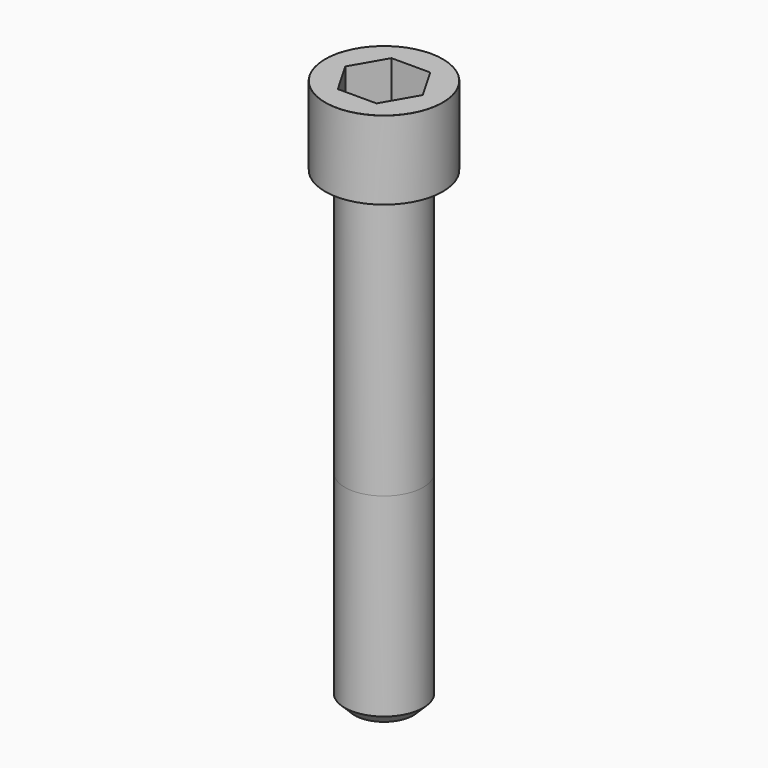
from build123d import *

# Parameters (mm, degrees)
POCKET_DEPTH = 17.1


with BuildPart() as part:
    # Sketch → Revolve (revolve)
    with BuildSketch(Plane.YZ):
        with BuildLine():
            Line((9.999, 0), (15, 0))
            Line((15, 0), (15, 19.97229))
            ThreePointArc((15, 19.97229), (14.991884, 19.991884), (14.97229, 20))
            Line((14.97229, 20), (0, 20))
            Line((0, -120), (0, 20))
            Line((7.5, -120), (0, -120))
            Line((10, -117.5), (7.5, -120))
            Line((10, -68), (10, -117.5))
            Line((9.999, 0), (10, -68))
        make_face()
    revolve(axis=Axis((0, 0, 0), (0, 0, 1)))

    # Sketch001 → Pocket (cut)
    with BuildSketch(Plane.XY.offset(20)):
        Polygon((9.87269, 0), (4.936345, 8.55), (-4.936345, 8.55), (-9.87269, 0), (-4.936345, -8.55), (4.936345, -8.55), align=None)
    extrude(amount=-POCKET_DEPTH, mode=Mode.SUBTRACT)


solid = part.part
